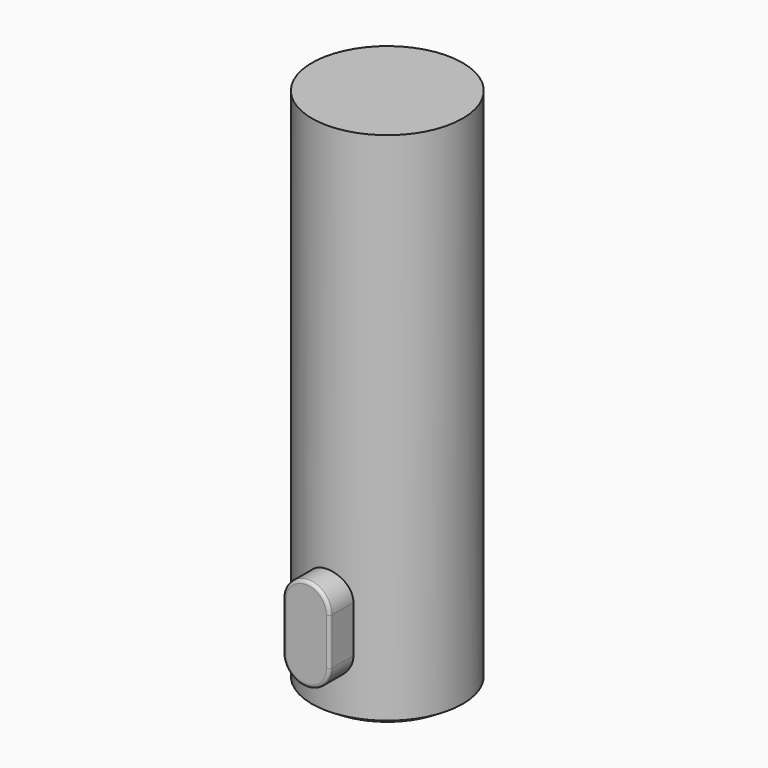
from build123d import *

# Parameters (mm, degrees)
F0_R     = 4.825
F1_DEPTH = 33
F3_DEPTH = 6.5
F4_R     = 0.2


with BuildPart() as f1:
    # F0 (on Top) → F1 (new body)
    with BuildSketch(Plane.XY):
        Circle(F0_R)
    extrude(amount=F1_DEPTH)

    # F2 (on Front) → F3 (join)
    with BuildSketch(Plane.XZ):
        with BuildLine():
            ThreePointArc((-1.5, 3.5), (0, 2), (1.5, 3.5))
            Line((1.5, 3.5), (1.5, 6.5))
            ThreePointArc((1.5, 6.5), (0, 8), (-1.5, 6.5))
            Line((-1.5, 6.5), (-1.5, 3.5))
        make_face()
    extrude(amount=F3_DEPTH)

    # F4
    f4_edges = [f1.edges().sort_by_distance(p)[0] for p in [
        (0, -6.5, 2),
        (1.5, -6.5, 5),
        (0, -6.5, 8),
        (-1.5, -6.5, 5),
    ]]
    fillet(f4_edges, radius=F4_R)

    # F5 (on Front) → F6 (revolve)
    with BuildSketch(Plane.XZ):
        with BuildLine():
            Line((0, 0), (-4.825, 0))
            ThreePointArc((-4.825, 0), (-2.5263919431, -1.1163524169), (0, -1.5))
            Line((0, -1.5), (0, 0))
        make_face()
    revolve(axis=Axis((0, 0, -1.4078605181), (0, 0, -1)))


solid = f1.part
